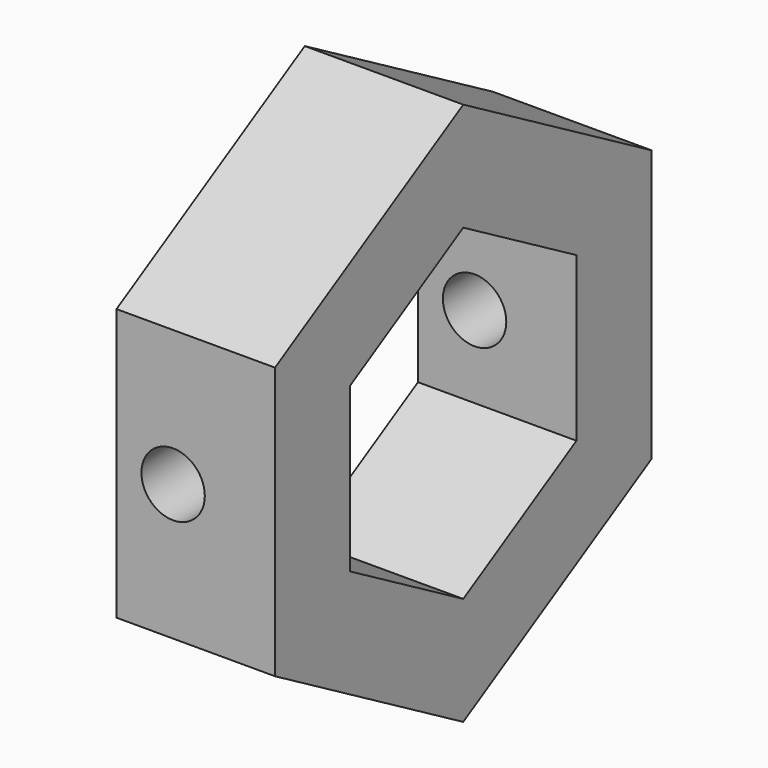
from build123d import *

# Parameters (mm, degrees)
SKETCH214_R     = 1.4
PAD127050_DEPTH = 15
PAD127042_DEPTH = 7


with BuildPart() as pad127050:
    # Sketch214 → Pad127050 (new body, symmetric)
    with BuildSketch(Plane(origin=(75, 0, 0), x_dir=(1, 0, 0), z_dir=(0, -1, 0))):
        with Locations((-22.5, 0)):
            Circle(SKETCH214_R)
    extrude(amount=PAD127050_DEPTH, both=True)


with BuildPart() as wheelcollar:
    # Sketch206 → Pad127042 (new body)
    with BuildSketch(Plane.YZ.offset(57)):
        Polygon((0, 12), (-10.392305, 6), (-10.392305, -6), (0, -12), (10.392305, -6), (10.392305, 6), align=None)
        Polygon((6.25, 3.608439), (0, 7.216878), (-6.25, 3.608439), (-6.25, -3.608439), (0, -7.216878), (6.25, -3.608439), align=None, mode=Mode.SUBTRACT)
    extrude(amount=-PAD127042_DEPTH)

    # Cut007019027: cut Pad127050
    add(pad127050.part, mode=Mode.SUBTRACT)


solid = wheelcollar.part
